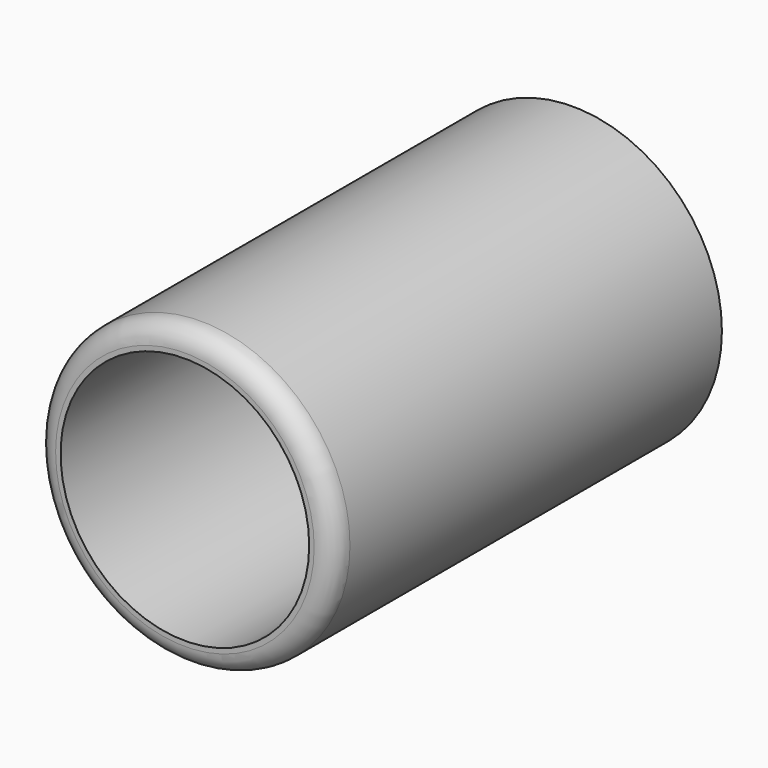
from build123d import *

# Parameters (mm, degrees)
F0_R     = 31.75
F1_DEPTH = 9.525
F0_R_2   = 38.1
F2_DEPTH = 123.825
F3_R     = 5.08


with BuildPart() as f1:
    # F0 (on Front) → F1 (new body)
    with BuildSketch(Plane.XZ):
        Circle(F0_R)
    extrude(amount=F1_DEPTH)


with BuildPart() as f2:
    # F0 (on Front) → F2 (new body)
    with BuildSketch(Plane.XZ):
        Circle(F0_R_2)
        Circle(F0_R, mode=Mode.SUBTRACT)
    extrude(amount=F2_DEPTH)

    # F3
    f3_edges = [f2.edges().sort_by_distance(p)[0] for p in [
        (-38.1, -123.825, 0),
    ]]
    fillet(f3_edges, radius=F3_R)


solid = Compound([f1.part, f2.part])
